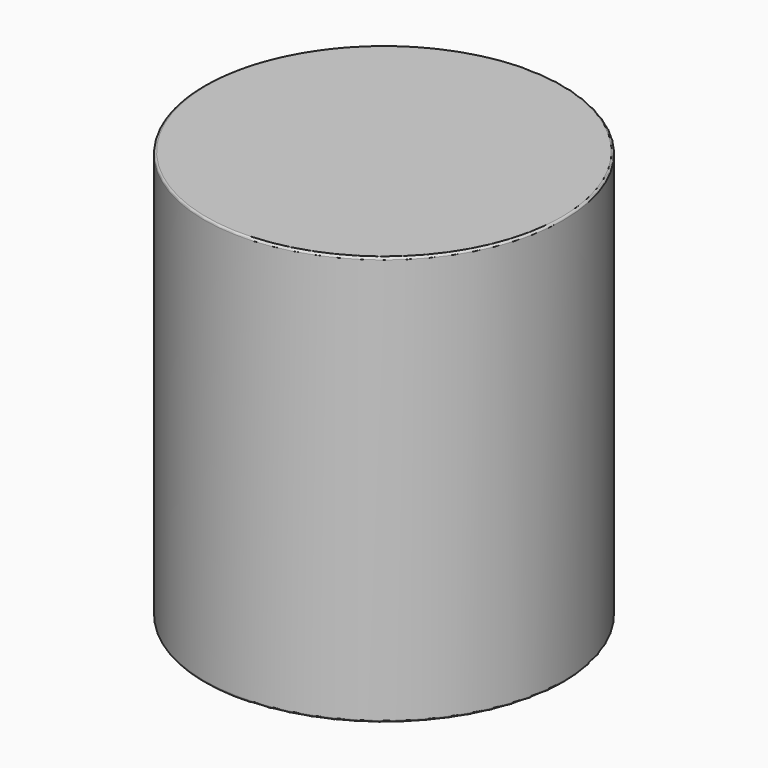
from build123d import *

# Parameters (mm, degrees)
F0_R     = 33.4136580184
F1_DEPTH = 38.0875840783
F3_R     = 0.3813665803


with BuildPart() as f1:
    # F0 (on Top) → F1 (new body)
    with BuildSketch(Plane.XY):
        Circle(F0_R)
    extrude(amount=F1_DEPTH)

    # F2: F1 across plane


with BuildPart() as f1_1:
    add(f1.part)
    add(f1.part.mirror(Plane.XY))

    # F3
    f3_edges = [f1_1.edges().sort_by_distance(p)[0] for p in [
        (-33.413658, 0, -38.087584),
        (-33.413658, 0, 38.087584),
    ]]
    fillet(f3_edges, radius=F3_R)


solid = f1_1.part
